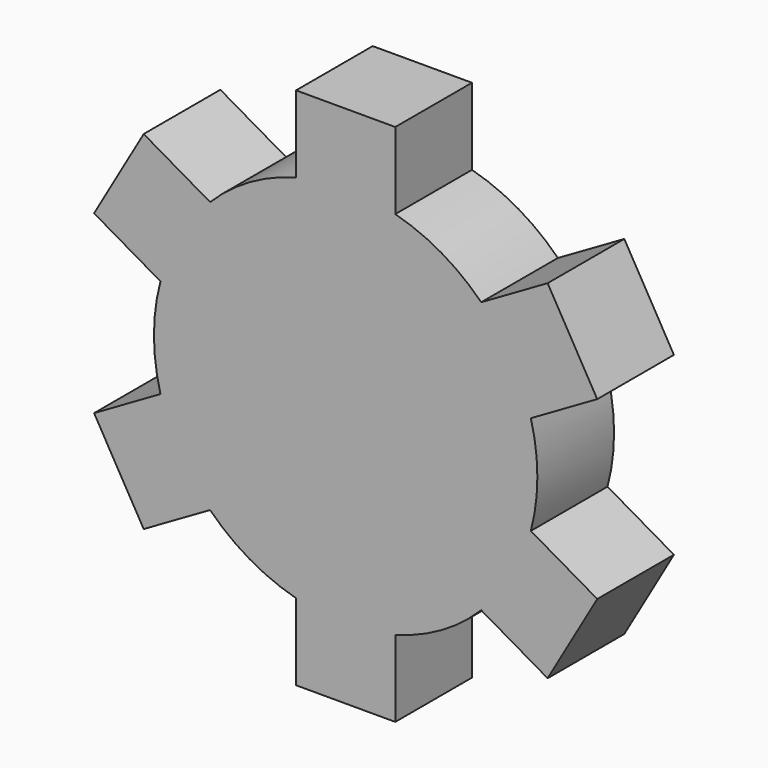
from build123d import *

# Parameters (mm, degrees)
F0_R     = 25.4
F1_DEPTH = 6.35
F3_DEPTH = 12.7
F5_COUNT = 6


with BuildPart() as f1:
    # F0 (on Front) → F1 (new body, symmetric)
    with BuildSketch(Plane.XZ):
        Circle(F0_R)
    extrude(amount=F1_DEPTH, both=True)

    # F2 (on face) → F3 (join)
    with BuildSketch(Plane(origin=(0, 6.35, 0), x_dir=(-1, 0, 0), z_dir=(0, 1, 0))):
        Polygon((0, -24.534516), (0, 0), (-6.574004, -24.534516), align=None)
        Polygon((6.574004, -24.534516), (0, 0), (0, -24.534516), align=None)
        Polygon((6.574004, -34.694516), (6.574004, -24.534516), (0, -24.534516), (-6.574004, -24.534516), (-6.574004, -34.694516), align=None)
        with BuildLine():
            Line((-6.574004, -24.534516), (0, 0))
            Line((0, 0), (6.574004, -24.534516))
            ThreePointArc((6.574004, -24.534516), (20.151175, -15.46254), (25.4, 0))
            ThreePointArc((25.4, 0), (-15.46254, 20.151175), (-6.574004, -24.534516))
        make_face()
    extrude(amount=-F3_DEPTH)

    # F5: F1 ×6 about axis
    f5_axis = Axis((0, -24.47786, 0), (0, -1, 0))


with BuildPart() as f1_1:
    add(f1.part)
    for i in range(1, F5_COUNT):
        add(f1.part.rotate(f5_axis, i * 360 / F5_COUNT))


solid = f1_1.part
